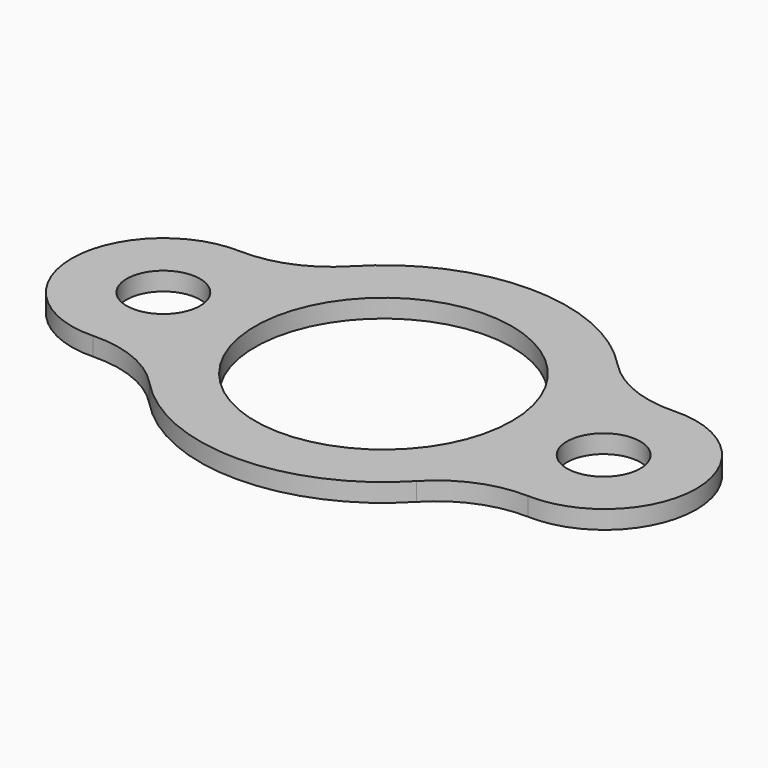
from build123d import *

# Parameters (mm, degrees)
F0_R     = 44.45
F0_R_2   = 12.7
F1_DEPTH = 6.35


with BuildPart() as f1:
    # F0 (on Top) → F1 (new body)
    with BuildSketch(Plane.XY):
        with BuildLine():
            ThreePointArc((-76.2, -12.7), (-67.219744, -8.980256), (-63.5, 0))
            ThreePointArc((-63.5, 0), (-85.180256, 8.980256), (-76.2, -12.7))
        make_face()
        with BuildLine():
            ThreePointArc((-46.136719, 43.630874), (-59.347524, 34.564632), (-75.117614, 31.731545))
            ThreePointArc((-75.117614, 31.731545), (-107.95, 0), (-75.117614, -31.731545))
            ThreePointArc((-75.117614, -31.731545), (-59.347524, -34.564632), (-46.136719, -43.630874))
            ThreePointArc((-46.136719, -43.630874), (0.097237, -63.499926), (46.270126, -43.489372))
            ThreePointArc((46.270126, -43.489372), (59.493096, -34.366174), (75.300953, -31.504125))
            ThreePointArc((75.300953, -31.504125), (108.108105, 0.323178), (75.111252, 31.953768))
            ThreePointArc((75.111252, 31.953768), (59.286566, 34.721254), (46.009287, 43.765232))
            ThreePointArc((46.009287, 43.765232), (-0.092589, 63.499932), (-46.136719, 43.630874))
        make_face()
        with BuildLine():
            ThreePointArc((-76.2, -12.7), (-85.180256, 8.980256), (-63.5, 0))
            ThreePointArc((-63.5, 0), (-67.219744, -8.980256), (-76.2, -12.7))
        make_face(mode=Mode.SUBTRACT)
        Circle(F0_R, mode=Mode.SUBTRACT)
        with Locations((76.2, 0)):
            Circle(F0_R_2, mode=Mode.SUBTRACT)
    extrude(amount=-F1_DEPTH)


solid = f1.part
